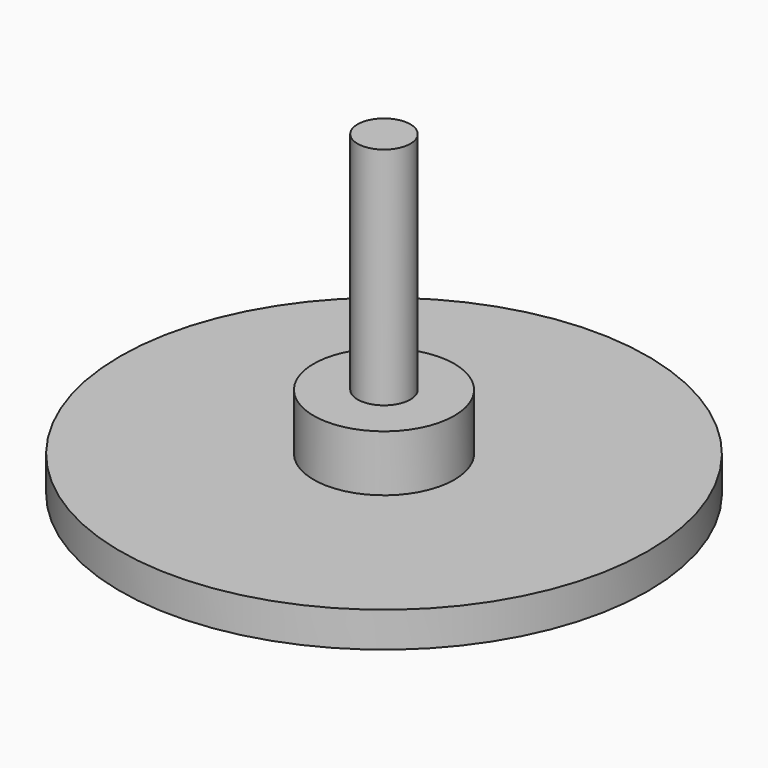
from build123d import *

# Parameters (mm, degrees)
F0_R          = 7.5
F0_R_2        = 2
F1_DEPTH      = 1
F0_R_3        = 0.75
F2_DEPTH      = 2.6
F3_DEPTH      = 9
F3_DEPTH_BACK = 3


with BuildPart() as f1:
    # F0 (on Top) → F1 (new body)
    with BuildSketch(Plane.XY):
        Circle(F0_R)
        Circle(F0_R_2, mode=Mode.SUBTRACT)
    extrude(amount=F1_DEPTH)

    # F0 (on Top) → F2 (join)
    with BuildSketch(Plane.XY):
        Circle(F0_R_2)
        Circle(F0_R_3, mode=Mode.SUBTRACT)
    extrude(amount=F2_DEPTH)


with BuildPart() as f3:
    # F0 (on Top) → F3 (new body, two sides)
    with BuildSketch(Plane.XY) as f3_sk:
        Circle(F0_R_3)
    extrude(amount=F3_DEPTH)
    extrude(f3_sk.sketch, amount=-F3_DEPTH_BACK)


solid = Compound([f1.part, f3.part])
